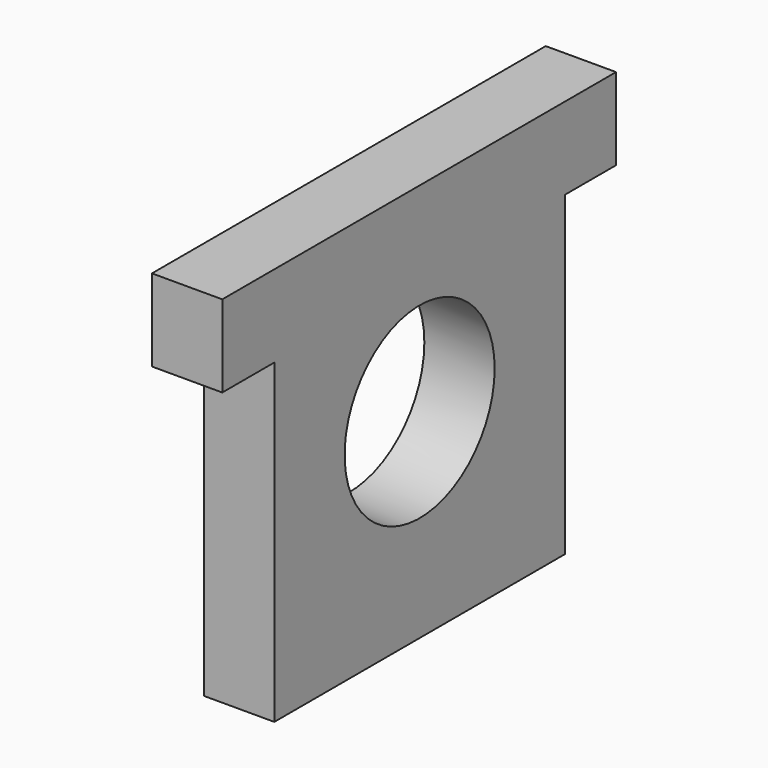
from build123d import *

# Parameters (mm, degrees)
F0_W     = 15.5
F0_H     = 13.5
F0_R     = 4
F1_DEPTH = 3


with BuildPart() as f1:
    # F0 (on Right) → F1 (new body)
    with BuildSketch(Plane.YZ):
        Polygon((-313.131073, 146.133296), (-310.35515, 146.133296), (-294.85515, 146.133296), (-292.131073, 146.133296), (-292.131073, 149.633296), (-313.131073, 149.633296), align=None)
        with Locations((-302.60515, 139.383296)):
            Rectangle(F0_W, F0_H)
        with Locations((-302.60515, 141.133296)):
            Circle(F0_R, mode=Mode.SUBTRACT)
    extrude(amount=F1_DEPTH)


solid = f1.part
